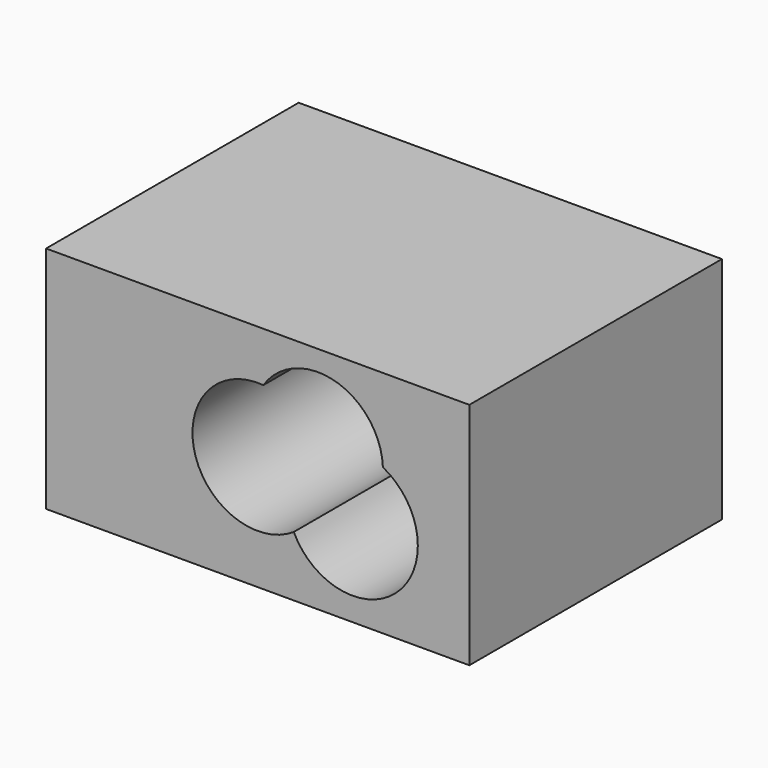
from build123d import *

# Parameters (mm, degrees)
F0_W     = 82.401804
F0_H     = 44.64303
F1_DEPTH = 61.468


with BuildPart() as f1:
    # F0 (on Front) → F1 (new body)
    with BuildSketch(Plane.XZ):
        Rectangle(F0_W, F0_H)
        with BuildLine():
            ThreePointArc((7.021603, -10.582395), (-12.305781, -3.139706), (1.093346, 12.652849))
            ThreePointArc((1.093346, 12.652849), (15.100083, 17.880291), (24.376422, 6.155771))
            ThreePointArc((24.376422, 6.155771), (29.340832, 1.480789), (31.171573, -5.088017))
            ThreePointArc((31.171573, -5.088017), (21.288964, -17.471566), (7.021603, -10.582395))
        make_face(mode=Mode.SUBTRACT)
    extrude(amount=F1_DEPTH)


solid = f1.part
